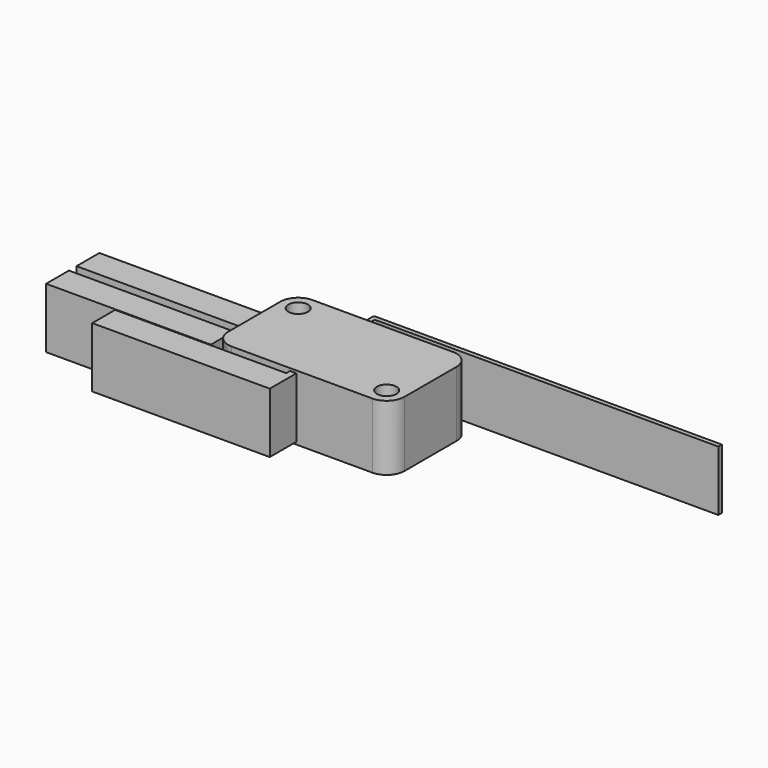
from build123d import *

# Parameters (mm, degrees)
SKETCH_R     = 1.55
PAD_DEPTH    = 5.15
SKETCH001_W  = 26
SKETCH001_H  = 4.5
PAD001_DEPTH = 4.75


with BuildPart() as part:
    # Sketch → Pad (new body, symmetric)
    with BuildSketch(Plane.XY):
        with BuildLine():
            Line((-11.1, 7.95), (11.1, 7.95))
            ThreePointArc((13.9, 5.15), (13.079899, 7.129899), (11.1, 7.95))
            Line((13.9, 5.15), (13.9, -5.15))
            ThreePointArc((11.1, -7.95), (13.079899, -7.129899), (13.9, -5.15))
            Line((-11.1, -7.95), (11.1, -7.95))
            ThreePointArc((-13.9, -5.15), (-13.079899, -7.129899), (-11.1, -7.95))
            Line((-13.9, 5.15), (-13.9, -5.15))
            ThreePointArc((-11.1, 7.95), (-13.079899, 7.129899), (-13.9, 5.15))
        make_face()
        with Locations((-11.1, 5.15)):
            Circle(SKETCH_R, mode=Mode.SUBTRACT)
        with Locations((11.1, -5.15)):
            Circle(SKETCH_R, mode=Mode.SUBTRACT)
    extrude(amount=PAD_DEPTH, both=True)

    # Sketch001 → Pad001 (join, symmetric)
    with BuildSketch(Plane.XY):
        with BuildLine():
            Line((-2, 9.25), (51.9, 9.25))
            Line((51.9, 9.25), (51.9, 9.95))
            Line((51.9, 9.95), (-2.7, 9.95))
            ThreePointArc((-2.7, 9.95), (-2.912132, 9.862132), (-3, 9.65))
            Line((-3, 9.65), (-3, 7.95))
            Line((-3, 7.95), (-2.3, 7.95))
            Line((-2.3, 8.95), (-2.3, 7.95))
            ThreePointArc((-2, 9.25), (-2.212132, 9.162132), (-2.3, 8.95))
        make_face()
        with Locations((-26.9, -0.3)):
            Rectangle(SKETCH001_W, SKETCH001_H)
        with Locations((-26.9, -6.3)):
            Rectangle(SKETCH001_W, SKETCH001_H)
        Polygon((-28.9, -8.7), (-1.9, -8.7), (-1.9, -7.95), (-0.9, -7.95), (-0.9, -13.2), (-28.9, -13.2), align=None)
    extrude(amount=PAD001_DEPTH, both=True)


solid = part.part
